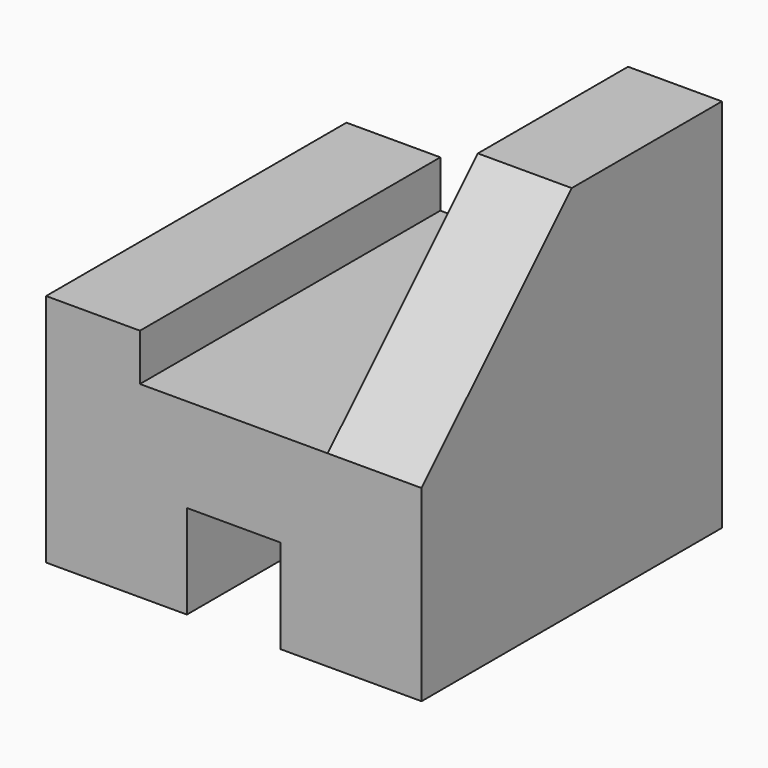
from build123d import *

# Parameters (mm, degrees)
F0_W     = 101.6
F0_H     = 101.6
F1_DEPTH = 101.6
F2_W     = 25.4
F2_H     = 25.4
F3_DEPTH = 115.062
F5_DEPTH = 27.178


with BuildPart() as f1:
    # F0 (on Top) → F1 (new body)
    with BuildSketch(Plane.XY):
        with Locations((-50.8, -50.8)):
            Rectangle(F0_W, F0_H)
    extrude(amount=F1_DEPTH)

    # F2 (on face) → F3 (cut)
    with BuildSketch(Plane.XZ.offset(101.6)):
        Polygon((-101.6, 101.6), (-101.6, 63.5), (-76.2, 63.5), (-76.2, 50.8), (-25.4, 50.8), (-25.4, 101.6), align=None)
        with Locations((-50.8, 12.7)):
            Rectangle(F2_W, F2_H)
    extrude(amount=-F3_DEPTH, mode=Mode.SUBTRACT)

    # F4 (on face) → F5 (cut)
    with BuildSketch(Plane.YZ):
        Polygon((-101.6, 101.6), (-101.6, 50.8), (-50.8, 101.6), align=None)
    extrude(amount=-F5_DEPTH, mode=Mode.SUBTRACT)


solid = f1.part
